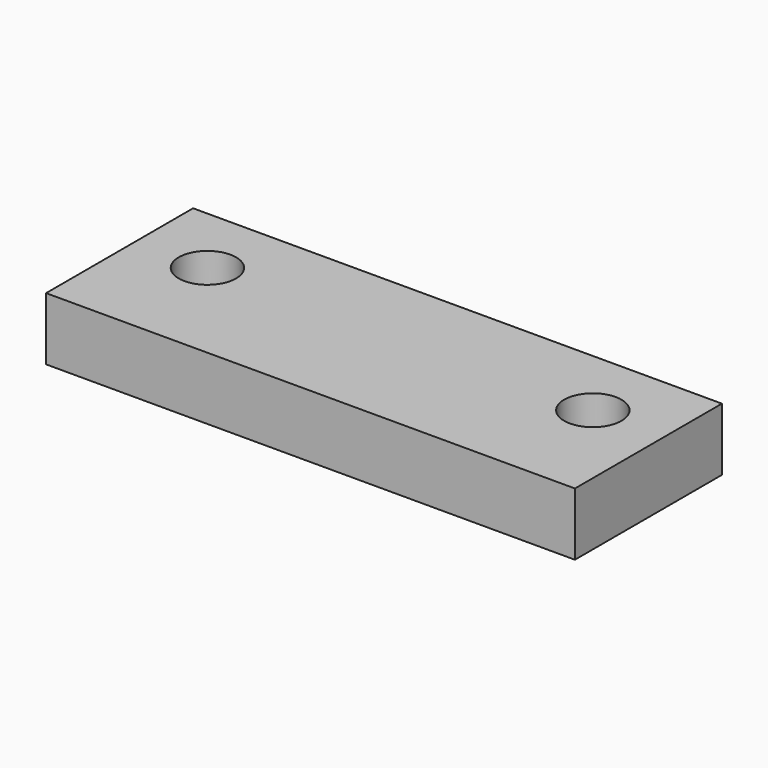
from build123d import *

# Parameters (mm, degrees)
SKETCH_W  = 29.5
SKETCH_H  = 20.5
SKETCH_R  = 3.2
PAD_DEPTH = 7


with BuildPart() as part:
    # Sketch → Pad (new body)
    with BuildSketch(Plane.XY):
        with Locations((-14.75, 10.25)):
            Rectangle(SKETCH_W, SKETCH_H)
        with Locations((-21.5, 12.5)):
            Circle(SKETCH_R, mode=Mode.SUBTRACT)
    pad = extrude(amount=PAD_DEPTH)

    # Mirrored: Pad across Sketch V_Axis
    add(pad.mirror(Plane(origin=(0, 0, 0), x_dir=(0, 0, 1), z_dir=(1, 0, 0))))


solid = part.part
